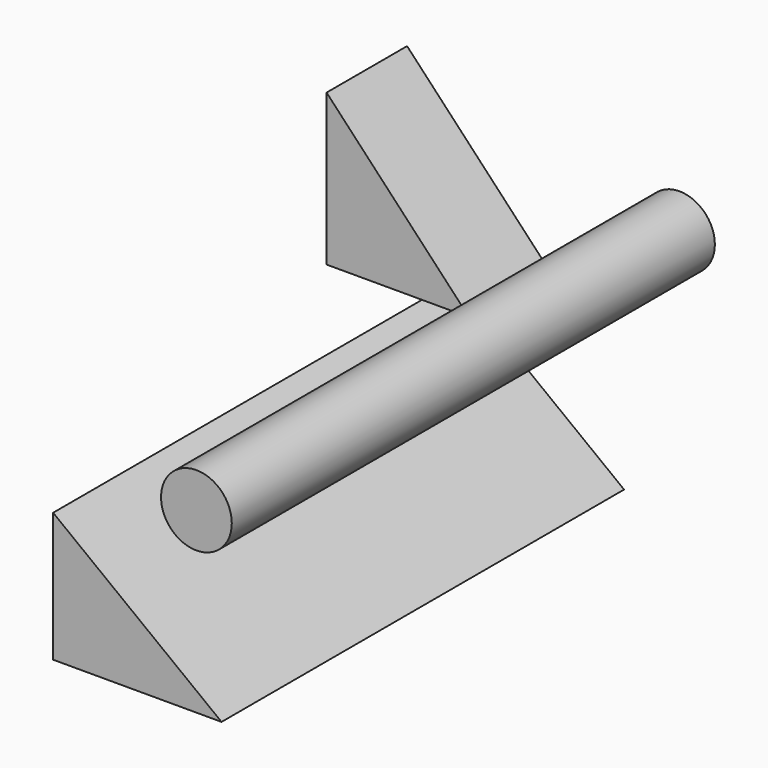
from build123d import *

# Parameters (mm, degrees)
F1_R      = 8.929443
F2_DEPTH  = 25.4
F2_FACE_R = 8.929443
F3_DEPTH  = 127
F5_DEPTH  = 127
F7_DEPTH  = 25.4


with BuildPart() as f2:
    # F1 (on face) → F2 (new body)
    with BuildSketch(Plane.XZ):
        with Locations((0, 29.237164)):
            Circle(F1_R)
    extrude(amount=F2_DEPTH)

    # F2_face (on face) → F3 (join)
    with BuildSketch(Plane(origin=(0, -25.4, 29.237164), x_dir=(1, 0, 0), z_dir=(0, -1, 0))):
        Circle(F2_FACE_R)
    extrude(amount=F3_DEPTH)


with BuildPart() as f5:
    # F4 (on Front) → F5 (new body)
    with BuildSketch(Plane.XZ):
        Polygon((-13.976792, -32.660052), (-56.477647, 0), (-56.477647, -32.660052), align=None)
    extrude(amount=F5_DEPTH)


with BuildPart() as f7:
    # F6 (on Front) → F7 (new body)
    with BuildSketch(Plane.XZ):
        Polygon((-32.802675, 9.840802), (-68.742998, 48.063047), (-68.742998, 9.840802), align=None)
    extrude(amount=F7_DEPTH)


solid = Compound([f2.part, f5.part, f7.part])
